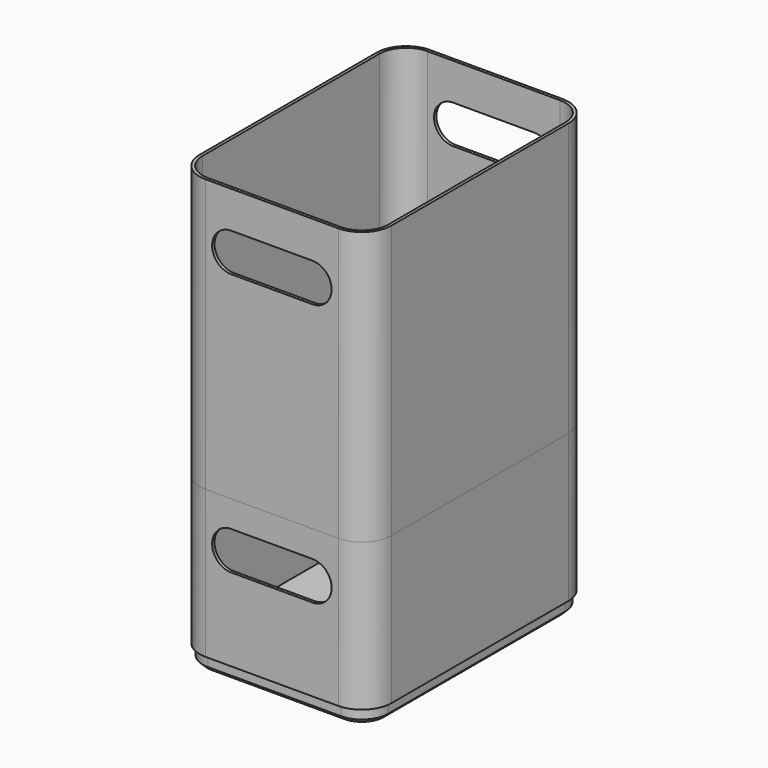
from build123d import *

# Parameters (mm, degrees)
F2_DEPTH  = 185
F3_T      = -2
F4_DEPTH  = 10
F5_DEPTH  = 100
F6_T      = -2
F8_DEPTH  = 10
F9_SIZE   = 3
F9_2_SIZE = 3
F10_W     = 55
F10_H     = 26
F11_DEPTH = 190.001


with BuildPart() as f2:
    # F1 (on Top) → F2 (new body)
    with BuildSketch(Plane.XY):
        with BuildLine():
            ThreePointArc((65, 75), (59.1421356237, 89.1421356237), (45, 95))
            Line((45, 95), (-45, 95))
            ThreePointArc((-45, 95), (-59.1421356237, 89.1421356237), (-65, 75))
            Line((-65, 75), (-65, -75))
            ThreePointArc((-65, -75), (-59.1421356237, -89.1421356237), (-45, -95))
            Line((-45, -95), (45, -95))
            ThreePointArc((45, -95), (59.1421356237, -89.1421356237), (65, -75))
            Line((65, -75), (65, 75))
        make_face()
        with BuildLine():
            Line((-62.8, -75), (-62.8, 75))
            ThreePointArc((-62.8, 75), (-57.5865007051, 87.5865007051), (-45, 92.8))
            Line((-45, 92.8), (45, 92.8))
            ThreePointArc((45, 92.8), (57.5865007051, 87.5865007051), (62.8, 75))
            Line((62.8, 75), (62.8, -75))
            ThreePointArc((62.8, -75), (57.5865007051, -87.5865007051), (45, -92.8))
            Line((45, -92.8), (-45, -92.8))
            ThreePointArc((-45, -92.8), (-57.5865007051, -87.5865007051), (-62.8, -75))
        make_face(mode=Mode.SUBTRACT)
        with BuildLine():
            ThreePointArc((-45, 92.8), (-57.5865007051, 87.5865007051), (-62.8, 75))
            Line((-62.8, 75), (-62.8, -75))
            ThreePointArc((-62.8, -75), (-57.5865007051, -87.5865007051), (-45, -92.8))
            Line((-45, -92.8), (45, -92.8))
            ThreePointArc((45, -92.8), (57.5865007051, -87.5865007051), (62.8, -75))
            Line((62.8, -75), (62.8, 75))
            ThreePointArc((62.8, 75), (57.5865007051, 87.5865007051), (45, 92.8))
            Line((45, 92.8), (-45, 92.8))
        make_face()
    extrude(amount=F2_DEPTH)

    # F3
    f3_openings = [f2.faces().sort_by_distance(p)[0] for p in [
        (0, 0, 185),
    ]]
    offset(amount=F3_T, openings=f3_openings)

    # F1 (on Top) → F4 (join)
    with BuildSketch(Plane.XY):
        with BuildLine():
            ThreePointArc((-45, 92.8), (-57.5865007051, 87.5865007051), (-62.8, 75))
            Line((-62.8, 75), (-62.8, -75))
            ThreePointArc((-62.8, -75), (-57.5865007051, -87.5865007051), (-45, -92.8))
            Line((-45, -92.8), (45, -92.8))
            ThreePointArc((45, -92.8), (57.5865007051, -87.5865007051), (62.8, -75))
            Line((62.8, -75), (62.8, 75))
            ThreePointArc((62.8, 75), (57.5865007051, 87.5865007051), (45, 92.8))
            Line((45, 92.8), (-45, 92.8))
        make_face()
    extrude(amount=-F4_DEPTH)

    # F9#2
    f9_2_edges = [f2.edges().sort_by_distance(p)[0] for p in [
        (-57.586501, 87.586501, -10),
        (-62.8, 0, -10),
        (-57.586501, -87.586501, -10),
        (0, -92.8, -10),
        (57.586501, -87.586501, -10),
        (62.8, 0, -10),
        (57.586501, 87.586501, -10),
        (0, 92.8, -10),
    ]]
    chamfer(f9_2_edges, length=F9_2_SIZE)


with BuildPart() as f5:
    # F1 (on Top) → F5 (new body)
    with BuildSketch(Plane.XY):
        with BuildLine():
            ThreePointArc((65, 75), (59.1421356237, 89.1421356237), (45, 95))
            Line((45, 95), (-45, 95))
            ThreePointArc((-45, 95), (-59.1421356237, 89.1421356237), (-65, 75))
            Line((-65, 75), (-65, -75))
            ThreePointArc((-65, -75), (-59.1421356237, -89.1421356237), (-45, -95))
            Line((-45, -95), (45, -95))
            ThreePointArc((45, -95), (59.1421356237, -89.1421356237), (65, -75))
            Line((65, -75), (65, 75))
        make_face()
        with BuildLine():
            Line((-62.8, -75), (-62.8, 75))
            ThreePointArc((-62.8, 75), (-57.5865007051, 87.5865007051), (-45, 92.8))
            Line((-45, 92.8), (45, 92.8))
            ThreePointArc((45, 92.8), (57.5865007051, 87.5865007051), (62.8, 75))
            Line((62.8, 75), (62.8, -75))
            ThreePointArc((62.8, -75), (57.5865007051, -87.5865007051), (45, -92.8))
            Line((45, -92.8), (-45, -92.8))
            ThreePointArc((-45, -92.8), (-57.5865007051, -87.5865007051), (-62.8, -75))
        make_face(mode=Mode.SUBTRACT)
        with BuildLine():
            ThreePointArc((-45, 92.8), (-57.5865007051, 87.5865007051), (-62.8, 75))
            Line((-62.8, 75), (-62.8, -75))
            ThreePointArc((-62.8, -75), (-57.5865007051, -87.5865007051), (-45, -92.8))
            Line((-45, -92.8), (45, -92.8))
            ThreePointArc((45, -92.8), (57.5865007051, -87.5865007051), (62.8, -75))
            Line((62.8, -75), (62.8, 75))
            ThreePointArc((62.8, 75), (57.5865007051, 87.5865007051), (45, 92.8))
            Line((45, 92.8), (-45, 92.8))
        make_face()
    extrude(amount=-F5_DEPTH)

    # F6
    f6_openings = [f5.faces().sort_by_distance(p)[0] for p in [
        (0, 0, 0),
    ]]
    offset(amount=F6_T, openings=f6_openings)

    # F7 (on face) → F8 (join)
    with BuildSketch(Plane(origin=(0, 0, -100), x_dir=(1, 0, 0), z_dir=(0, 0, -1))):
        with BuildLine():
            Line((62.8, -75), (62.8, 75))
            ThreePointArc((62.8, 75), (57.5865007051, 87.5865007051), (45, 92.8))
            Line((45, 92.8), (-45, 92.8))
            ThreePointArc((-45, 92.8), (-57.5865007051, 87.5865007051), (-62.8, 75))
            Line((-62.8, 75), (-62.8, -75))
            ThreePointArc((-62.8, -75), (-57.5865007051, -87.5865007051), (-45, -92.8))
            Line((-45, -92.8), (45, -92.8))
            ThreePointArc((45, -92.8), (57.5865007051, -87.5865007051), (62.8, -75))
        make_face()
    extrude(amount=F8_DEPTH)

    # F9
    f9_edges = [f5.edges().sort_by_distance(p)[0] for p in [
        (62.8, 0, -110),
        (57.586501, -87.586501, -110),
        (0, -92.8, -110),
        (-57.586501, -87.586501, -110),
        (-62.8, 0, -110),
        (-57.586501, 87.586501, -110),
        (0, 92.8, -110),
        (57.586501, 87.586501, -110),
    ]]
    chamfer(f9_edges, length=F9_SIZE)


with BuildPart() as f11_tool:
    # F10 (on face) → F11 (new body, through all)
    with BuildSketch(Plane.XZ.offset(95)):
        with Locations((0, 147)):
            Rectangle(F10_W, F10_H)
        with BuildLine():
            ThreePointArc((27.5, 134), (40.5, 147), (27.5, 160))
            Line((27.5, 160), (27.5, 134))
        make_face()
        with BuildLine():
            Line((-27.5, 134), (-27.5, 160))
            ThreePointArc((-27.5, 160), (-40.5, 147), (-27.5, 134))
        make_face()
        with Locations((0, -31)):
            Rectangle(F10_W, F10_H)
        with BuildLine():
            ThreePointArc((27.5, -44), (40.5, -31), (27.5, -18))
            Line((27.5, -18), (27.5, -44))
        make_face()
        with BuildLine():
            Line((-27.5, -44), (-27.5, -18))
            ThreePointArc((-27.5, -18), (-40.5, -31), (-27.5, -44))
        make_face()
    extrude(amount=-F11_DEPTH)


with BuildPart() as f2_1:
    add(f2.part)

    # F11: cut by f11_tool
    add(f11_tool.part, mode=Mode.SUBTRACT)


with BuildPart() as f5_1:
    add(f5.part)

    # F11: cut by f11_tool
    add(f11_tool.part, mode=Mode.SUBTRACT)


solid = Compound([f2_1.part, f5_1.part])
